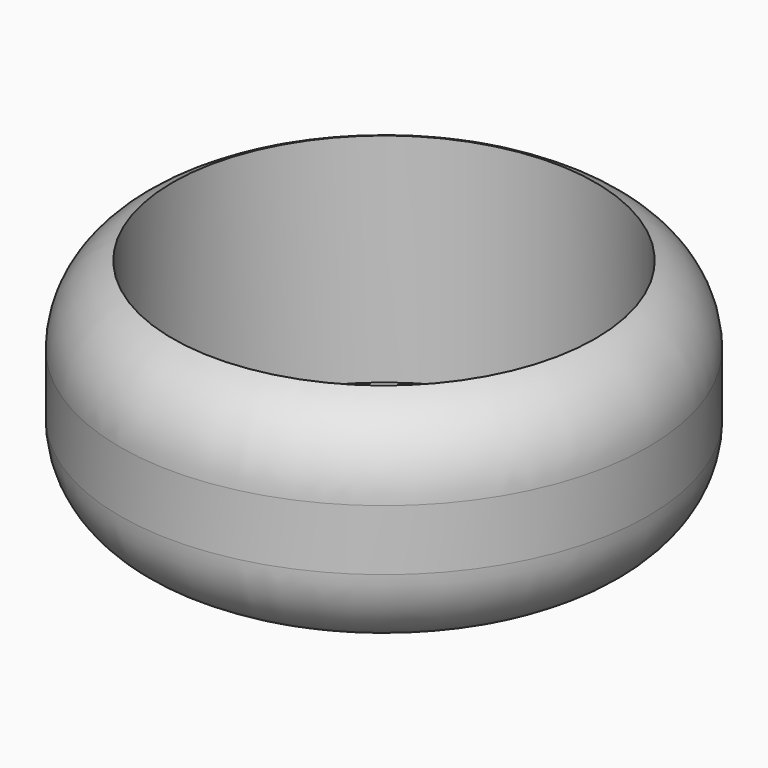
from build123d import *

# Parameters (mm, degrees)
F0_W     = 79.3259590864
F0_H     = 69.0427422523
F2_R     = 25.4
F3_DEPTH = 25.4
F5_D     = 127


with BuildPart() as f1:
    # F0 (on Front) → F1 (revolve)
    with BuildSketch(Plane.XZ):
        with Locations((39.6629795432, 34.5213711262)):
            Rectangle(F0_W, F0_H)
    revolve(axis=Axis((0, 0, 34.5213711262), (0, 0, 1)))

    # F2
    f2_edges = [f1.edges().sort_by_distance(p)[0] for p in [
        (-79.325959, 0, 0),
        (-79.325959, 0, 69.042742),
        (79.325959, 0, 34.521371),
    ]]
    fillet(f2_edges, radius=F2_R)

    # F3 (add): a face of the model
    f3_faces = [f1.faces().sort_by_distance(p)[0] for p in [
        (0, 0, 69.0427422523),
    ]]
    extrude(f3_faces, amount=F3_DEPTH)

    # F5 (through all)
    with Locations(Plane.XY.offset(94.4427422523)):
        with Locations((0, 0)):
            Hole(F5_D / 2)


solid = f1.part
